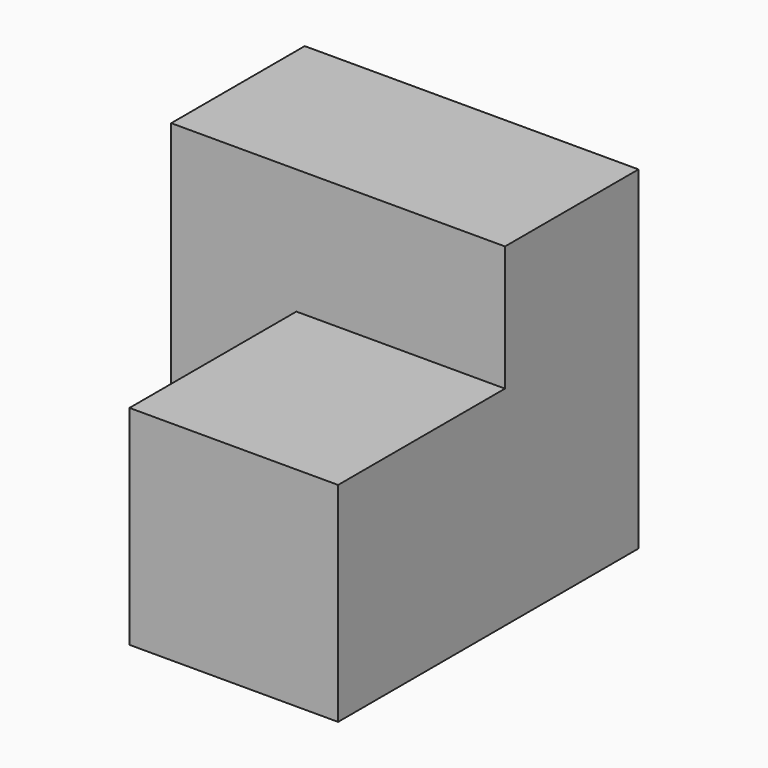
from build123d import *

# Parameters (mm, degrees)
F0_W     = 101.6
F0_H     = 50.8
F1_DEPTH = 101.6
F2_W     = 63.5
F2_H     = 63.5
F3_DEPTH = 63.5


with BuildPart() as f1:
    # F0 (on Top) → F1 (new body)
    with BuildSketch(Plane.XY):
        Rectangle(F0_W, F0_H)
    extrude(amount=F1_DEPTH)

    # F2 (on face) → F3 (join)
    with BuildSketch(Plane.XZ.offset(25.4)):
        with Locations((19.05, 31.75)):
            Rectangle(F2_W, F2_H)
        with Locations((19.05, 31.75)):
            Rectangle(F2_W, F2_H)
    extrude(amount=F3_DEPTH)


solid = f1.part
